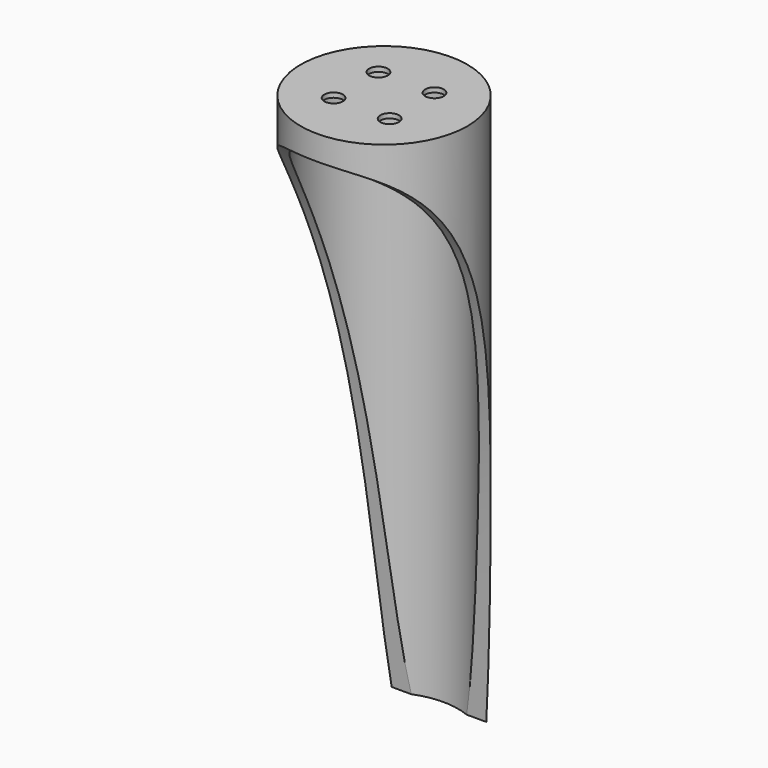
from build123d import *

# Parameters (mm, degrees)
F0_R     = 17.884061545
F1_DEPTH = 1
F2_R     = 17.884061545
F2_R_2   = 15.884061545
F3_DEPTH = 120
F5_DEPTH = 100
F6_R     = 2
F7_DEPTH = 121.0010007


with BuildPart() as f1:
    # F0 (on Top) → F1 (new body)
    with BuildSketch(Plane.XY):
        Circle(F0_R)
    extrude(amount=F1_DEPTH)

    # F2 (on face) → F3 (join)
    with BuildSketch(Plane(origin=(0, 0, 0), x_dir=(1, 0, 0), z_dir=(0, 0, -1))):
        Circle(F2_R)
        Circle(F2_R_2, mode=Mode.SUBTRACT)
    extrude(amount=F3_DEPTH)

    # F4 (on Right) → F5 (cut, symmetric)
    with BuildSketch(Plane.YZ):
        with BuildLine():
            add(Edge.make_bspline(
                [(-23.545185104, -2.931100782), (-12.2797633222, -3.5261581086), (11.4767752963, -34.9586093489), (12.414609837, -94.1865478451), (15.1815395802, -125.3380775452)],
                knots=[0, 0, 0, 0, 0.3949910862, 1, 1, 1, 1], degree=3))
            Line((-23.545185104, -2.931100782), (-23.545185104, -130.5240243673))
            Line((-23.545185104, -130.5240243673), (15.1815395802, -125.3380775452))
        make_face()
    extrude(amount=F5_DEPTH, both=True, mode=Mode.SUBTRACT)

    # F6 (on face) → F7 (cut, through all)
    with BuildSketch(Plane.XY.offset(1)):
        with Locations((-6.0105, 6.0103152788)):
            Circle(F6_R)
        with Locations((6.0105, 6.0103152788)):
            Circle(F6_R)
        with Locations((6.0105, -6.0103152788)):
            Circle(F6_R)
        with Locations((-6.0105, -6.0103152788)):
            Circle(F6_R)
    extrude(amount=-F7_DEPTH, mode=Mode.SUBTRACT)


solid = f1.part
